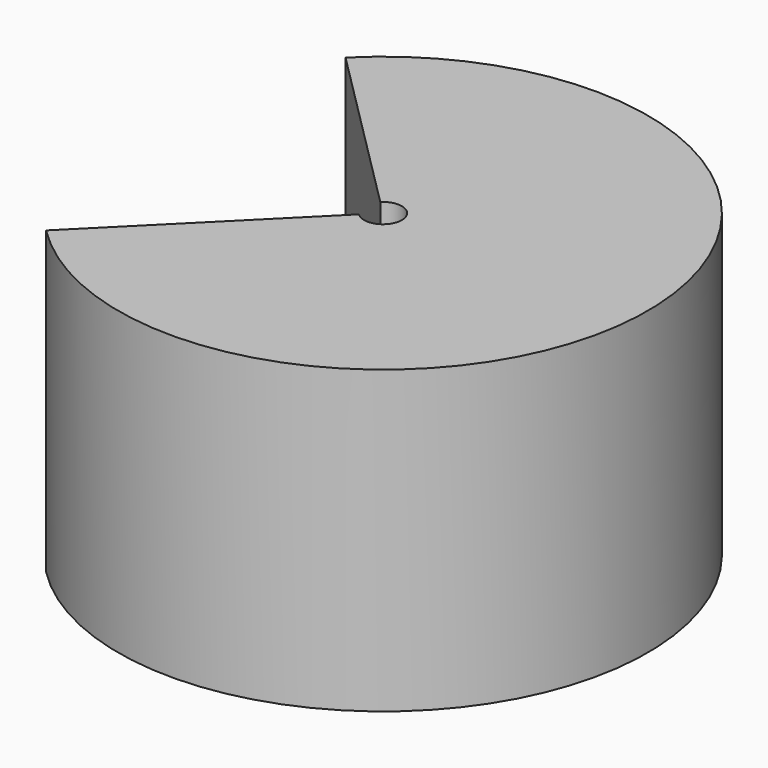
from build123d import *

# Parameters (mm, degrees)
F0_W     = 65
F0_H     = 79.585727
F1_ANGLE = 270


with BuildPart() as f1:
    # F0 (on Front) → F1 (revolve, symmetric)
    with BuildSketch(Plane.XZ) as f1_sk:
        with Locations((37.5, 39.792863)):
            Rectangle(F0_W, F0_H)
    revolve(axis=Axis((0, 0, 39.915223), (0, 0, 1)), revolution_arc=F1_ANGLE / 2)
    revolve(f1_sk.sketch, axis=Axis((0, 0, 39.915223), (0, 0, -1)), revolution_arc=F1_ANGLE / 2)


solid = f1.part
